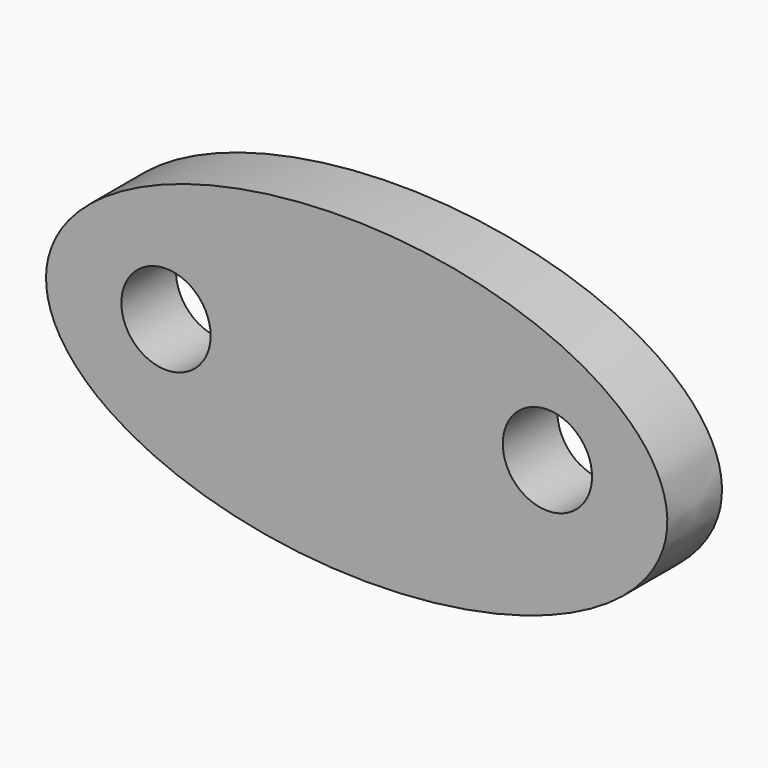
from build123d import *

# Parameters (mm, degrees)
F0_R     = 16.603178
F1_DEPTH = 25.4


with BuildPart() as f1:
    # F0 (on Front) → F1 (new body)
    with BuildSketch(Plane.XZ):
        with BuildLine():
            add(Edge.make_bspline(
                [(-115.554012, 3.02196), (-118.197657, -98.065981), (56.455184, -52.054951), (231.108025, -6.043921), (59.098829, 49.032991), (-112.910368, 104.109902), (-115.554012, 3.02196)],
                knots=[0, 0, 0, 2.094395, 2.094395, 4.18879, 4.18879, 6.283185, 6.283185, 6.283185], degree=2, weights=[1, 0.5, 1, 0.5, 1, 0.5, 1]))
        make_face()
        with Locations((-70.944116, 3.309766)):
            Circle(F0_R, mode=Mode.SUBTRACT)
        with Locations((70.944116, 3.309766)):
            Circle(F0_R, mode=Mode.SUBTRACT)
    extrude(amount=F1_DEPTH)


solid = f1.part
